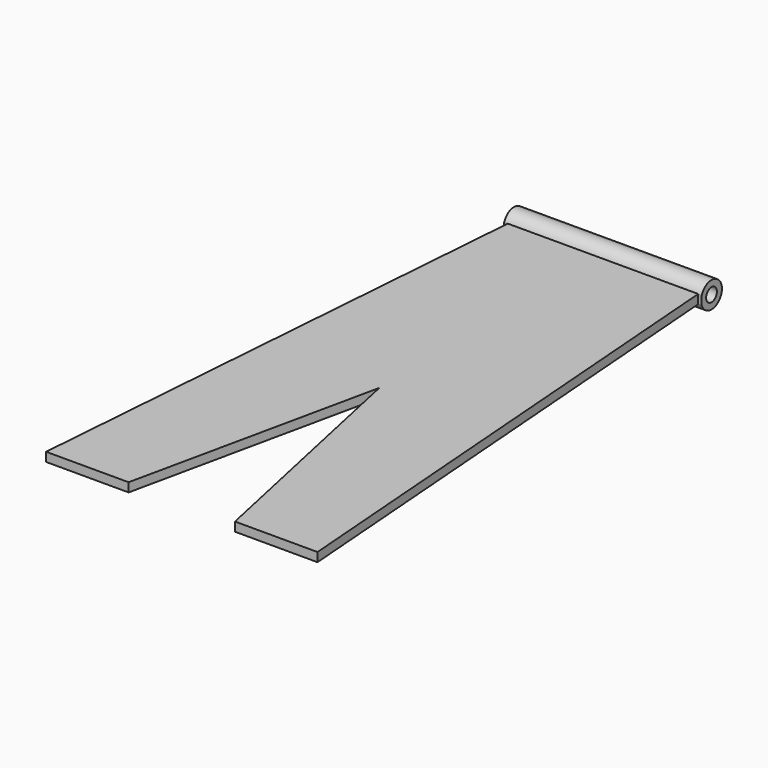
from build123d import *

# Parameters (mm, degrees)
F0_R      = 1.45
F1_DEPTH  = 24
F5_DEPTH  = 65
F7_DEPTH  = 25
F8_W      = 31
F8_H      = 5
F9_DEPTH  = 25
F10_R     = 0.75
F11_DEPTH = 40
F12_W     = 1
F12_H     = 2.9
F12_H_2   = 3.020188
F13_DEPTH = 12.5


with BuildPart() as f1:
    # F0 (on Right) → F1 (new body)
    with BuildSketch(Plane.YZ):
        Circle(F0_R)
    extrude(amount=F1_DEPTH)

    # F4 (on offset) → F5 (join)
    with BuildSketch(Plane.XZ.offset(65)):
        Polygon((22.5, 0.5), (1.5, 0.5), (-3.5, 0.5), (-3.5, -0.5), (1.5, -0.5), (22.5, -0.5), (27.5, -0.5), (27.5, 0.5), align=None)
    extrude(amount=-F5_DEPTH)

    # F6 (on face) → F7 (cut)
    with BuildSketch(Plane.XY.offset(0.5)):
        Polygon((27.5, -65), (27.5, 0), (24, 0), (24, -1.361066), (22.604697, -1.361066), align=None)
        Polygon((0, 0), (-3.5, 0), (-3.5, -65), (1.395303, -1.361066), (0, -1.361066), align=None)
        Polygon((5, -65), (12, -65), (19, -65), (12, -32.5), align=None)
    extrude(amount=-F7_DEPTH, mode=Mode.SUBTRACT)

    # F8 (on face) → F9 (cut)
    with BuildSketch(Plane.XY.offset(0.5)):
        with Locations((12, -62.5)):
            Rectangle(F8_W, F8_H)
    extrude(amount=-F9_DEPTH, mode=Mode.SUBTRACT)

    # F10 (on face) → F11 (cut)
    with BuildSketch(Plane.YZ.offset(24)):
        Circle(F10_R)
    extrude(amount=-F11_DEPTH, mode=Mode.SUBTRACT)

    # F12 (on Top) → F13 (cut, symmetric)
    with BuildSketch(Plane.XY):
        with Locations((0.5, 0)):
            Rectangle(F12_W, F12_H)
        with Locations((23.5, -0.060094)):
            Rectangle(F12_W, F12_H_2)
    extrude(amount=F13_DEPTH, both=True, mode=Mode.SUBTRACT)


solid = f1.part
